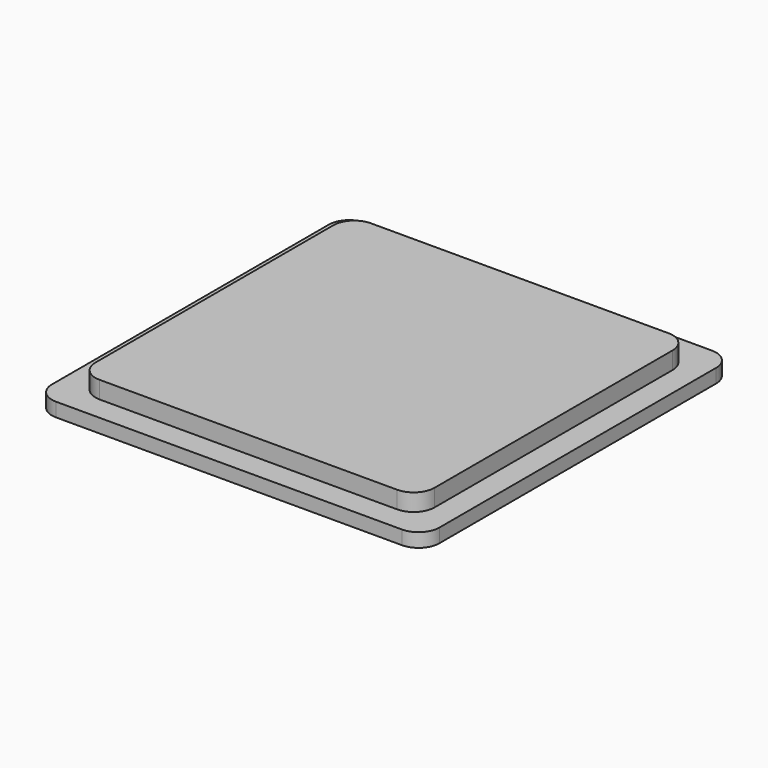
from build123d import *

# Parameters (mm, degrees)
F1_DEPTH = 2
F3_DEPTH = 2.5


with BuildPart() as f1:
    # F0 (on Top) → F1 (new body)
    with BuildSketch(Plane.XY):
        with BuildLine():
            Line((21.071214, 29.358514), (-28.928786, 29.358514))
            ThreePointArc((-28.928786, 29.358514), (-31.050106, 28.479834), (-31.928786, 26.358514))
            Line((-31.928786, 26.358514), (-31.928786, -23.641486))
            ThreePointArc((-31.928786, -23.641486), (-31.050106, -25.762806), (-28.928786, -26.641486))
            Line((-28.928786, -26.641486), (21.071214, -26.641486))
            ThreePointArc((21.071214, -26.641486), (23.192534, -25.762806), (24.071214, -23.641486))
            Line((24.071214, -23.641486), (24.071214, 26.358514))
            ThreePointArc((24.071214, 26.358514), (23.192534, 28.479834), (21.071214, 29.358514))
        make_face()
    extrude(amount=F1_DEPTH)

    # F2 (on face) → F3 (join)
    with BuildSketch(Plane.XY.offset(2)):
        with BuildLine():
            ThreePointArc((-28.428786, -20.141486), (-27.550106, -22.262806), (-25.428786, -23.141486))
            Line((-25.428786, -23.141486), (17.571214, -23.141486))
            ThreePointArc((17.571214, -23.141486), (19.692534, -22.262806), (20.571214, -20.141486))
            Line((20.571214, -20.141486), (20.571214, 22.858514))
            ThreePointArc((20.571214, 22.858514), (19.692534, 24.979834), (17.571214, 25.858514))
            Line((17.571214, 25.858514), (-25.428786, 25.858514))
            ThreePointArc((-25.428786, 25.858514), (-27.550106, 24.979834), (-28.428786, 22.858514))
            Line((-28.428786, 22.858514), (-28.428786, -20.141486))
        make_face()
    extrude(amount=F3_DEPTH)


solid = f1.part
